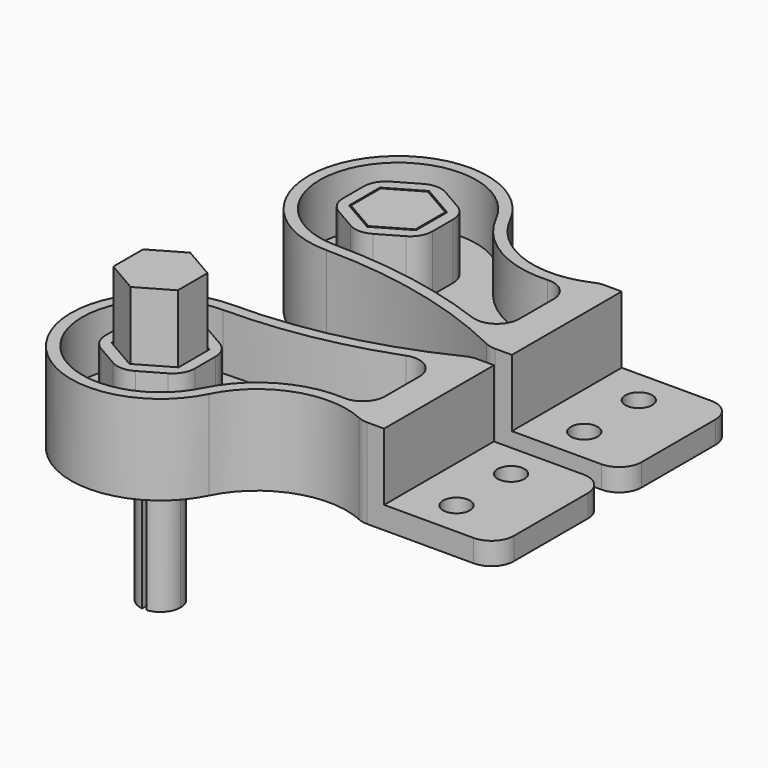
from build123d import *

# Parameters (mm, degrees)
F0_W          = 30
F0_H          = 30.6971445025
F0_R          = 3
F1_DEPTH      = 5
F2_W          = 5
F2_H          = 30.6971445025
F3_DEPTH      = 15
F4_DEPTH      = 15
F5_T          = -2.5
F7_R          = 5
F8_DEPTH      = 20
F8_DEPTH_BACK = 3
F9_DEPTH      = 30
F10_R         = 1
F12_DEPTH     = 15


with BuildPart() as f1:
    # F0 (on Top) → F1 (new body)
    with BuildSketch(Plane.XY):
        with BuildLine():
            ThreePointArc((0, -20), (14.1421356237, -14.1421356237), (20, 0))
            ThreePointArc((20, 0), (19.4722024092, 4.5643546459), (17.9166666667, 8.8878037532))
            ThreePointArc((17.9166666667, 8.8878037532), (-16.9964124901, 10.5414402464), (0, -20))
        make_face()
        Polygon((0, -8.6602540378), (-7.5, -4.3301270189), (-7.5, 4.3301270189), (0, 8.6602540378), (7.5, 4.3301270189), (7.5, -4.3301270189), align=None, mode=Mode.SUBTRACT)
        with BuildLine():
            ThreePointArc((17.9166666667, 8.8878037532), (19.4722024092, 4.5643546459), (20, 0))
            ThreePointArc((20, 0), (14.1421356237, -14.1421356237), (0, -20))
            ThreePointArc((0, -20), (23.1269804585, -22.7110346706), (45, -30.6971445025))
            Line((45, -30.6971445025), (45, 0))
            ThreePointArc((45, 0), (29.5972376887, -1.2273162452), (17.9166666667, 8.8878037532))
        make_face()
        with Locations((60, -15.3485722513)):
            Rectangle(F0_W, F0_H)
        with Locations((60, -22.9772473031)):
            Circle(F0_R, mode=Mode.SUBTRACT)
        with Locations((60, -7.7198971994)):
            Circle(F0_R, mode=Mode.SUBTRACT)
    extrude(amount=F1_DEPTH)

    # F2 (on face) → F3 (join)
    with BuildSketch(Plane.XY.offset(5)):
        with Locations((47.5, -15.3485722513)):
            Rectangle(F2_W, F2_H)
    extrude(amount=F3_DEPTH)


with BuildPart() as f4:
    # F4 (new): a face of the model
    f4_faces = [f1.part.faces().sort_by_distance(p)[0] for p in [
        (12.4252092026, -5.5183544489, 5),
    ]]
    extrude(f4_faces, amount=F4_DEPTH)

    # F5
    f5_openings = [f4.faces().sort_by_distance(p)[0] for p in [
        (12.425209, -5.518354, 20),
    ]]
    offset(amount=F5_T, openings=f5_openings, kind=Kind.INTERSECTION)


with BuildPart() as f1_1:
    add(f1.part)

    # F6: union F4
    add(f4.part)

    # F7
    f7_edges = [f1_1.edges().sort_by_distance(p)[0] for p in [
        (75, 0, 2.5),
        (75, -30.697145, 2.5),
        (45, -30.697145, 10),
        (45, 0, 10),
        (17.916667, 8.887804, 10),
        (0, -20, 10),
        (42.5, -3.714054, 13.75),
        (42.5, -26.726209, 13.75),
        (0, -11.547005, 13.75),
        (10, -5.773503, 13.75),
        (-10, -5.773503, 13.75),
        (-10, 5.773503, 13.75),
        (0, 11.547005, 13.75),
        (10, 5.773503, 13.75),
    ]]
    fillet(f7_edges, radius=F7_R)


with BuildPart() as f8:
    # F0 (on Top) → F8 (new body, two sides)
    with BuildSketch(Plane.XY) as f8_sk:
        Polygon((-7.2, 4.1569219382), (-7.2, -4.1569219382), (0, -8.3138438763), (7.2, -4.1569219382), (7.2, 4.1569219382), (0, 8.3138438763), align=None)
        with BuildLine():
            ThreePointArc((0.5, 4.472135955), (3.3541019662, 3), (4.5, 0))
            ThreePointArc((4.5, 0), (3.3541019662, -3), (0.5, -4.472135955))
            ThreePointArc((0.5, -4.472135955), (0, -4.5), (-0.5, -4.472135955))
            ThreePointArc((-0.5, -4.472135955), (-4.5, 0), (-0.5, 4.472135955))
            ThreePointArc((-0.5, 4.472135955), (0, 4.5), (0.5, 4.472135955))
        make_face(mode=Mode.SUBTRACT)
        with BuildLine():
            Line((-0.5, 1.4142135624), (-0.5, 4.472135955))
            ThreePointArc((-0.5, 4.472135955), (-4.5, 0), (-0.5, -4.472135955))
            Line((-0.5, -4.472135955), (-0.5, -1.4142135624))
            ThreePointArc((-0.5, -1.4142135624), (-1.5, 0), (-0.5, 1.4142135624))
        make_face()
        with BuildLine():
            ThreePointArc((0.5, -4.472135955), (3.3541019662, -3), (4.5, 0))
            ThreePointArc((4.5, 0), (3.3541019662, 3), (0.5, 4.472135955))
            Line((0.5, 4.472135955), (0.5, 1.4142135624))
            ThreePointArc((0.5, 1.4142135624), (1.2247448714, 0.8660254038), (1.5, 0))
            ThreePointArc((1.5, 0), (1.2247448714, -0.8660254038), (0.5, -1.4142135624))
            Line((0.5, -1.4142135624), (0.5, -4.472135955))
        make_face()
        with BuildLine():
            Line((0.5, -1.4142135624), (0.5, 1.4142135624))
            ThreePointArc((0.5, 1.4142135624), (0, 1.5), (-0.5, 1.4142135624))
            Line((-0.5, 1.4142135624), (-0.5, -1.4142135624))
            ThreePointArc((-0.5, -1.4142135624), (0, -1.5), (0.5, -1.4142135624))
        make_face()
        with BuildLine():
            ThreePointArc((-0.5, -4.472135955), (0, -4.5), (0.5, -4.472135955))
            Line((0.5, -4.472135955), (0.5, -1.4142135624))
            ThreePointArc((0.5, -1.4142135624), (0, -1.5), (-0.5, -1.4142135624))
            Line((-0.5, -1.4142135624), (-0.5, -4.472135955))
        make_face()
        with BuildLine():
            Line((0.5, 1.4142135624), (0.5, 4.472135955))
            ThreePointArc((0.5, 4.472135955), (0, 4.5), (-0.5, 4.472135955))
            Line((-0.5, 4.472135955), (-0.5, 1.4142135624))
            ThreePointArc((-0.5, 1.4142135624), (0, 1.5), (0.5, 1.4142135624))
        make_face()
        with BuildLine():
            ThreePointArc((1.5, 0), (1.2247448714, 0.8660254038), (0.5, 1.4142135624))
            Line((0.5, 1.4142135624), (0.5, -1.4142135624))
            ThreePointArc((0.5, -1.4142135624), (1.2247448714, -0.8660254038), (1.5, 0))
        make_face()
        with BuildLine():
            Line((-0.5, -1.4142135624), (-0.5, 1.4142135624))
            ThreePointArc((-0.5, 1.4142135624), (-1.5, 0), (-0.5, -1.4142135624))
        make_face()
    extrude(amount=F8_DEPTH)
    extrude(f8_sk.sketch, amount=-F8_DEPTH_BACK)

    # F0 (on Top) → F9 (join)
    with BuildSketch(Plane.XY):
        with BuildLine():
            Line((-0.5, 1.4142135624), (-0.5, 4.472135955))
            ThreePointArc((-0.5, 4.472135955), (-4.5, 0), (-0.5, -4.472135955))
            Line((-0.5, -4.472135955), (-0.5, -1.4142135624))
            ThreePointArc((-0.5, -1.4142135624), (-1.5, 0), (-0.5, 1.4142135624))
        make_face()
        with BuildLine():
            ThreePointArc((0.5, -4.472135955), (3.3541019662, -3), (4.5, 0))
            ThreePointArc((4.5, 0), (3.3541019662, 3), (0.5, 4.472135955))
            Line((0.5, 4.472135955), (0.5, 1.4142135624))
            ThreePointArc((0.5, 1.4142135624), (1.2247448714, 0.8660254038), (1.5, 0))
            ThreePointArc((1.5, 0), (1.2247448714, -0.8660254038), (0.5, -1.4142135624))
            Line((0.5, -1.4142135624), (0.5, -4.472135955))
        make_face()
        with BuildLine():
            ThreePointArc((1.5, 0), (1.2247448714, 0.8660254038), (0.5, 1.4142135624))
            Line((0.5, 1.4142135624), (0.5, -1.4142135624))
            ThreePointArc((0.5, -1.4142135624), (1.2247448714, -0.8660254038), (1.5, 0))
        make_face()
        with BuildLine():
            Line((-0.5, -1.4142135624), (-0.5, 1.4142135624))
            ThreePointArc((-0.5, 1.4142135624), (-1.5, 0), (-0.5, -1.4142135624))
        make_face()
    extrude(amount=-F9_DEPTH)

    # F10
    f10_edges = [f8.edges().sort_by_distance(p)[0] for p in [
        (-3.6, 6.235383, -3),
        (3.6, 6.235383, -3),
        (7.2, 0, -3),
        (3.6, -6.235383, -3),
        (-7.2, 0, -3),
        (-3.6, -6.235383, -3),
    ]]
    fillet(f10_edges, radius=F10_R)


with BuildPart() as f11_1:
    # F11: copy of F8
    add(f8.part.moved(Location((0, -59.65352, 0))))

    # F12 (add): a face of the model
    f12_faces = [f11_1.faces().sort_by_distance(p)[0] for p in [
        (0, -59.65352, 20),
    ]]
    extrude(f12_faces, amount=F12_DEPTH)


with BuildPart() as f13_1:
    # F13: instance of F1
    add(f1_1.part.mirror(Plane(origin=(54.8351001326, -30.6971445025, 5.7515380215), x_dir=(1, 0, 0), z_dir=(0, -1, 0))))


with BuildPart() as f13_1_1:
    # F14: moved
    add(f13_1.part.moved(Location((0, -5, 0))))


with BuildPart() as f11_1_1:
    # F15: moved
    add(f11_1.part.moved(Location((0, -6.75, 0))))


solid = Compound([f1_1.part, f8.part, f13_1_1.part, f11_1_1.part])
